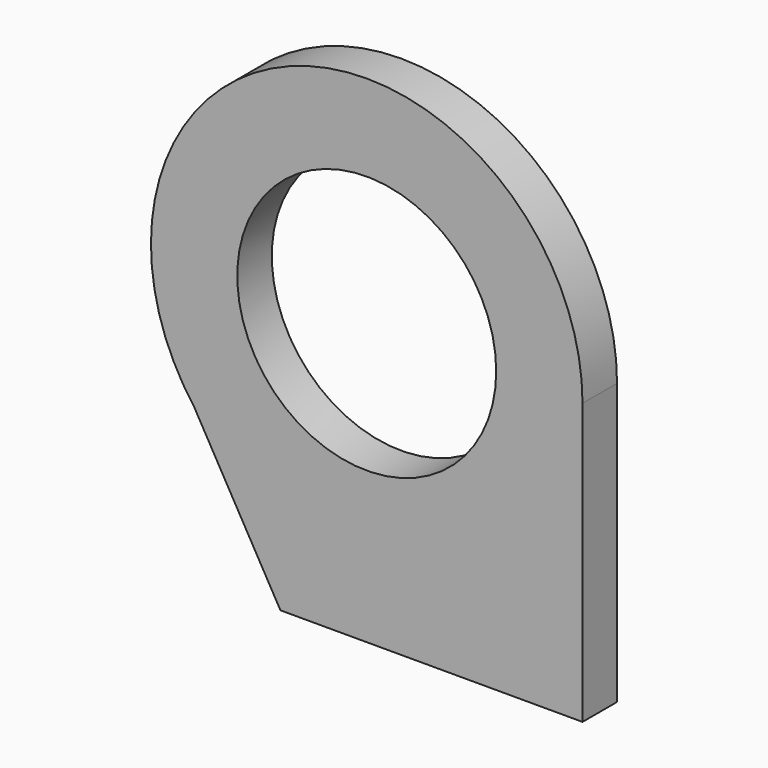
from build123d import *

# Parameters (mm, degrees)
SKETCH274_AS_DRAWN_R                 = 3
EXTRUDE077_DEPTH                     = 1
EXTRUDE077_ONTO_SKETCH274_ROLL_ANGLE = 90
EXTRUDE076_DEPTH                     = 1
EXTRUDE076_ONTO_SKETCH273_ROLL_ANGLE = 90


with BuildPart() as extrude077:
    # Sketch274 as drawn → Extrude077 (new)
    with BuildSketch(Plane.XY):
        with Locations((2, 8)):
            Circle(SKETCH274_AS_DRAWN_R)
    extrude(amount=-EXTRUDE077_DEPTH)


with BuildPart() as extrude077_1:
    # Extrude077 onto Sketch274 roll: moved
    add(extrude077.part.rotate(Axis((0, 0, 0), (1, 0, 0)), EXTRUDE077_ONTO_SKETCH274_ROLL_ANGLE))


with BuildPart() as extrude077_2:
    # Extrude077 onto Sketch274 placement: moved
    add(extrude077_1.part.moved(Location((0, -1, -0.5))))


with BuildPart() as cut046:
    # Sketch273 as drawn → Extrude076 (new)
    with BuildSketch(Plane.XY):
        with BuildLine():
            ThreePointArc((7, 8), (0.418861, 12.743416), (-1.999999, 5))
            Line((-1.999999, 5), (0, 1.5))
            Line((0, 1.5), (7, 1.5))
            Line((7, 8), (7, 1.5))
        make_face()
    extrude(amount=-EXTRUDE076_DEPTH)


with BuildPart() as cut046_1:
    # Extrude076 onto Sketch273 roll: moved
    add(cut046.part.rotate(Axis((0, 0, 0), (1, 0, 0)), EXTRUDE076_ONTO_SKETCH273_ROLL_ANGLE))


with BuildPart() as cut046_2:
    # Extrude076 onto Sketch273 placement: moved
    add(cut046_1.part.moved(Location((0, -1, -0.5))))

    # Cut046: cut Extrude077
    add(extrude077_2.part, mode=Mode.SUBTRACT)


solid = cut046_2.part
